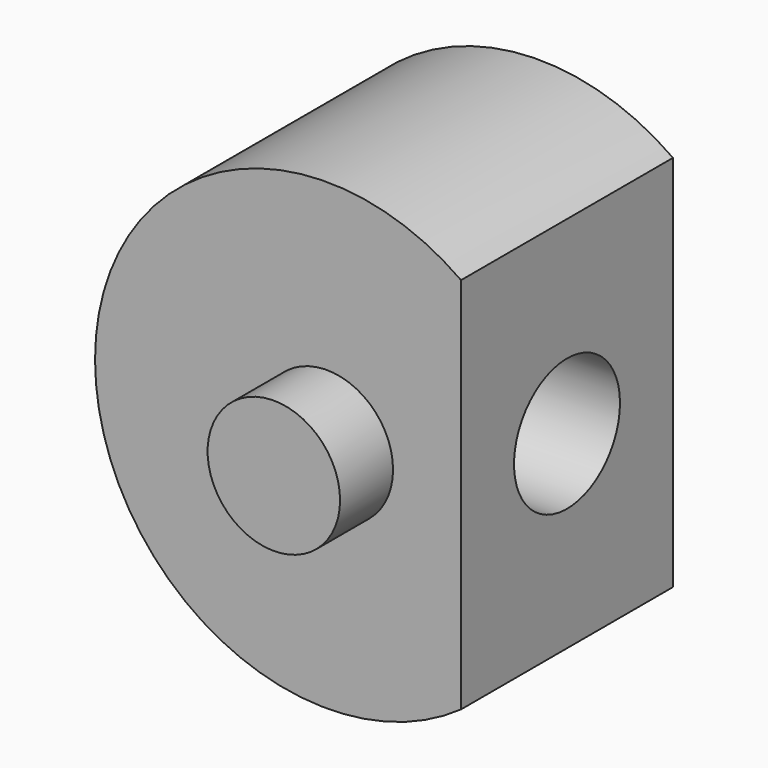
from build123d import *

# Parameters (mm, degrees)
F0_R     = 11.1125
F1_DEPTH = 6.35
F2_R     = 3.175
F3_DEPTH = 3.175
F4_R     = 3.175
F5_DEPTH = 3.175
F7_DEPTH = 25.4
F8_R     = 3.175
F9_DEPTH = 12.7


with BuildPart() as f1:
    # F0 (on Front) → F1 (new body, symmetric)
    with BuildSketch(Plane.XZ):
        Circle(F0_R)
    extrude(amount=F1_DEPTH, both=True)

    # F2 (on face) → F3 (join)
    with BuildSketch(Plane.XZ.offset(6.35)):
        Circle(F2_R)
    extrude(amount=F3_DEPTH)

    # F4 (on face) → F5 (join)
    with BuildSketch(Plane(origin=(0, 6.35, 0), x_dir=(-1, 0, 0), z_dir=(0, 1, 0))):
        Circle(F4_R)
    extrude(amount=F5_DEPTH)

    # F6 (on face) → F7 (cut)
    with BuildSketch(Plane(origin=(0, 9.525, 0), x_dir=(-1, 0, 0), z_dir=(0, 1, 0))):
        with BuildLine():
            ThreePointArc((-6.4359051175, 9.0590717829), (-11.1125, 0), (-6.4359051175, -9.0590717829))
            Line((-6.4359051175, -9.0590717829), (-6.4359051175, 9.0590717829))
        make_face()
    extrude(amount=-F7_DEPTH, mode=Mode.SUBTRACT)

    # F8 (on face) → F9 (cut)
    with BuildSketch(Plane.YZ.offset(6.4359051175)):
        Circle(F8_R)
    extrude(amount=-F9_DEPTH, mode=Mode.SUBTRACT)


solid = f1.part
